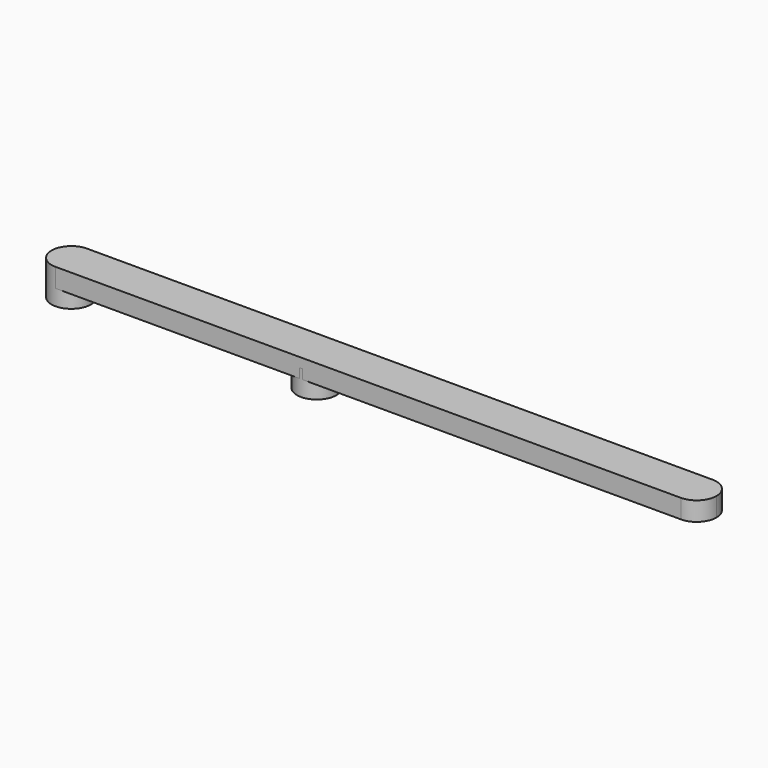
from build123d import *

# Parameters (mm, degrees)
F1_DEPTH = 1.905
F2_R     = 3.9746580695
F3_DEPTH = 5.08


with BuildPart() as f1:
    # F0 (on Top) → F1 (new body, symmetric)
    with BuildSketch(Plane.XY):
        with BuildLine():
            Line((-62.8335401416, -3.9637982845), (-62.8335401416, 3.9637982845))
            ThreePointArc((-62.8335401416, 3.9637982845), (-66.7973384261, 0), (-62.8335401416, -3.9637982845))
        make_face()
        with BuildLine():
            ThreePointArc((-58.8697418571, 0), (-60.0307114953, 2.8028286462), (-62.8335401416, 3.9637982845))
            Line((-62.8335401416, 3.9637982845), (-62.8335401416, -3.9637982845))
            ThreePointArc((-62.8335401416, -3.9637982845), (-60.0307114953, -2.8028286462), (-58.8697418571, 0))
        make_face()
        with BuildLine():
            Line((62.8335401416, 3.9637982845), (-62.8335401416, 3.9637982845))
            ThreePointArc((-62.8335401416, 3.9637982845), (-60.0307114953, 2.8028286462), (-58.8697418571, 0))
            ThreePointArc((-58.8697418571, 0), (-60.0307114953, -2.8028286462), (-62.8335401416, -3.9637982845))
            Line((-62.8335401416, -3.9637982845), (62.8335401416, -3.9637982845))
            ThreePointArc((62.8335401416, -3.9637982845), (58.8697418571, 0), (62.8335401416, 3.9637982845))
        make_face()
        with BuildLine():
            Line((62.8335401416, -3.9637982845), (62.8335401416, 3.9637982845))
            ThreePointArc((62.8335401416, 3.9637982845), (58.8697418571, 0), (62.8335401416, -3.9637982845))
        make_face()
        with BuildLine():
            ThreePointArc((66.7973384261, 0), (65.6363687878, 2.8028286462), (62.8335401416, 3.9637982845))
            Line((62.8335401416, 3.9637982845), (62.8335401416, -3.9637982845))
            ThreePointArc((62.8335401416, -3.9637982845), (65.6363687878, -2.8028286462), (66.7973384261, 0))
        make_face()
    extrude(amount=F1_DEPTH, both=True)

    # F2 (on Top) + F0 (on Top) → F3 (join)
    with BuildSketch(Plane.XY):
        with Locations((-13.5062746704, 0)):
            Circle(F2_R)
    with BuildSketch(Plane.XY):
        with BuildLine():
            ThreePointArc((-58.8697418571, 0), (-60.0307114953, 2.8028286462), (-62.8335401416, 3.9637982845))
            Line((-62.8335401416, 3.9637982845), (-62.8335401416, -3.9637982845))
            ThreePointArc((-62.8335401416, -3.9637982845), (-60.0307114953, -2.8028286462), (-58.8697418571, 0))
        make_face()
        with BuildLine():
            Line((-62.8335401416, -3.9637982845), (-62.8335401416, 3.9637982845))
            ThreePointArc((-62.8335401416, 3.9637982845), (-66.7973384261, 0), (-62.8335401416, -3.9637982845))
        make_face()
    extrude(amount=-F3_DEPTH)


solid = f1.part
